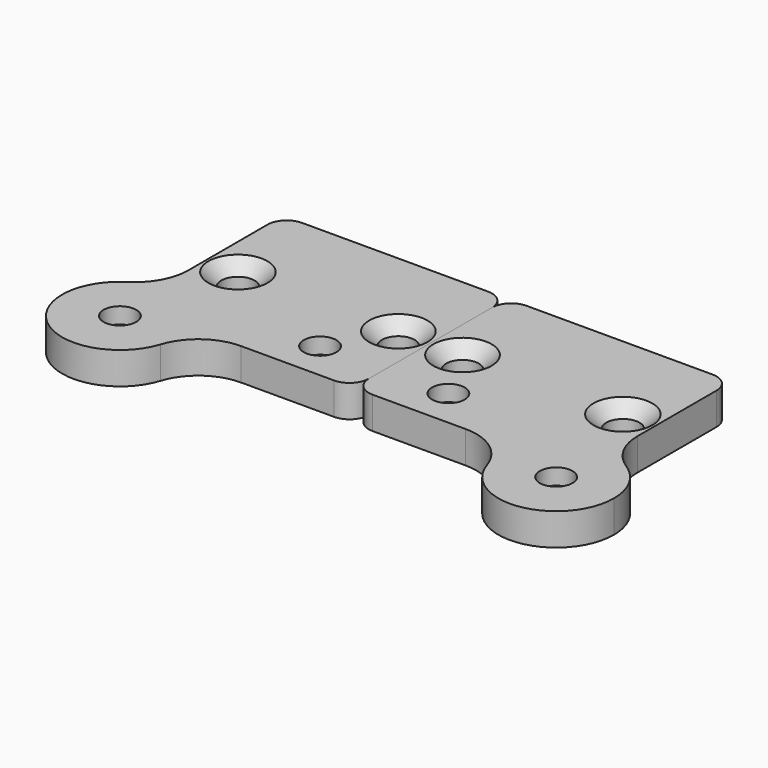
from build123d import *

# Parameters (mm, degrees)
F0_R     = 2.55
F0_R_2   = 2.6
F1_DEPTH = 5
F2_SIZE  = 2.5
F3_SIZE  = 2
F4_SIZE  = 2.5


with BuildPart() as f1:
    # F0 (on Top) → F1 (new body)
    with BuildSketch(Plane.XY):
        with BuildLine():
            Line((-17.5, 12), (-17.5, -12))
            ThreePointArc((-17.5, -12), (-16.62132, -14.12132), (-14.5, -15))
            Line((-14.5, -15), (0, -15))
            ThreePointArc((0, -15), (4.907558, -16.595858), (7.937838, -20.772973))
            ThreePointArc((7.937838, -20.772973), (10.994497, -10.880348), (21.33794, -10.410907))
            ThreePointArc((21.33794, -10.410907), (18.52247, -7.403524), (17.5, -3.412814))
            Line((17.5, -3.412814), (17.5, 12))
            ThreePointArc((17.5, 12), (16.62132, 14.12132), (14.5, 15))
            Line((14.5, 15), (-14.5, 15))
            ThreePointArc((-14.5, 15), (-16.62132, 14.12132), (-17.5, 12))
        make_face()
        with Locations((-7.5, -9)):
            Circle(F0_R, mode=Mode.SUBTRACT)
        with Locations((-12.5, 0)):
            Circle(F0_R, mode=Mode.SUBTRACT)
        with Locations((12.5, 0)):
            Circle(F0_R_2, mode=Mode.SUBTRACT)
        with BuildLine():
            ThreePointArc((21.33794, -10.410907), (10.994497, -10.880348), (7.937838, -20.772973))
            ThreePointArc((7.937838, -20.772973), (17.903663, -26.889867), (25.5, -18))
            ThreePointArc((25.5, -18), (24.39118, -13.672267), (21.33794, -10.410907))
        make_face()
        with Locations((16.5, -18)):
            Circle(F0_R, mode=Mode.SUBTRACT)
    extrude(amount=F1_DEPTH)

    # F2
    f2_edges = [f1.edges().sort_by_distance(p)[0] for p in [
        (-10.05, -9, 0),
    ]]
    chamfer(f2_edges, length=F2_SIZE)

    # F3
    f3_edges = [f1.edges().sort_by_distance(p)[0] for p in [
        (9.9, 0, 5),
        (-15.05, 0, 5),
    ]]
    chamfer(f3_edges, length=F3_SIZE)

    # F4
    f4_edges = [f1.edges().sort_by_distance(p)[0] for p in [
        (13.95, -18, 0),
    ]]
    chamfer(f4_edges, length=F4_SIZE)


with BuildPart() as f5_1:
    # F5: instance of F1
    add(f1.part.mirror(Plane(origin=(-17.5, 0, 2.5), x_dir=(0, -1, 0), z_dir=(-1, 0, 0))))


solid = Compound([f1.part, f5_1.part])
